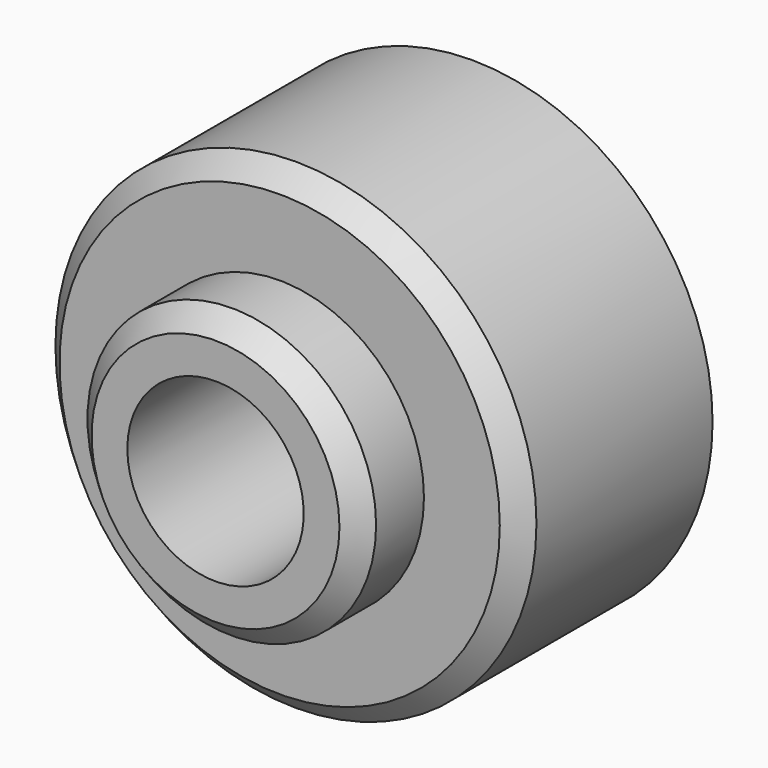
from build123d import *

# Parameters (mm, degrees)
F0_R     = 30
F1_DEPTH = 30
F2_R     = 18
F3_DEPTH = 10
F5_D     = 22
F6_SIZE  = 2.54
F7_SIZE  = 2.54


with BuildPart() as f1:
    # F0 (on Front) → F1 (new body)
    with BuildSketch(Plane.XZ):
        Circle(F0_R)
    extrude(amount=F1_DEPTH)

    # F2 (on face) → F3 (join)
    with BuildSketch(Plane.XZ.offset(30)):
        Circle(F2_R)
    extrude(amount=F3_DEPTH)

    # F5 (through all)
    with Locations(Plane.XZ.offset(40)):
        with Locations((0, 0)):
            Hole(F5_D / 2)

    # F6
    f6_edges = [f1.edges().sort_by_distance(p)[0] for p in [
        (-30, -30, 0),
    ]]
    chamfer(f6_edges, length=F6_SIZE)

    # F7
    f7_edges = [f1.edges().sort_by_distance(p)[0] for p in [
        (-18, -40, 0),
    ]]
    chamfer(f7_edges, length=F7_SIZE)


solid = f1.part
